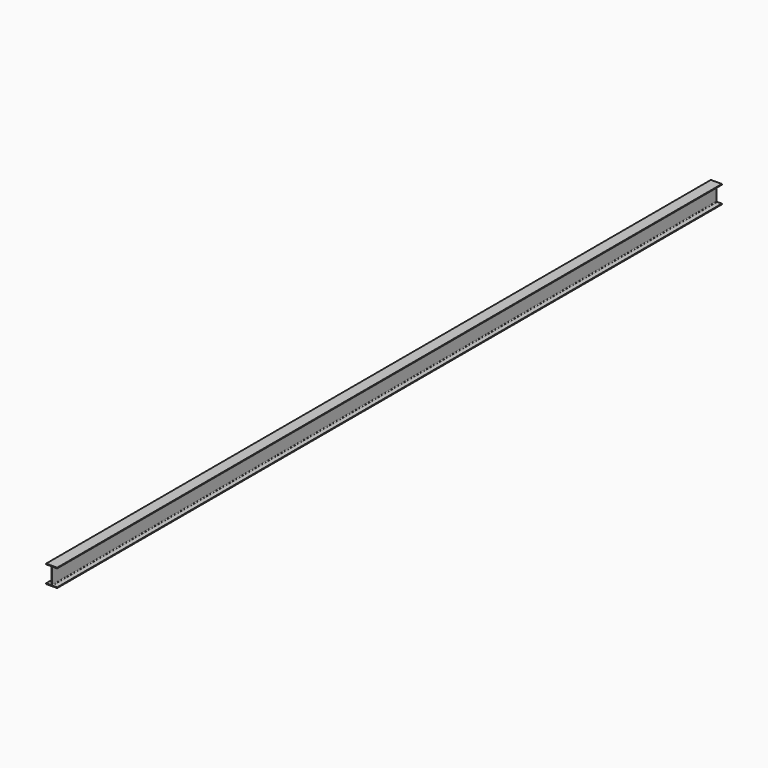
from build123d import *

# Parameters (mm, degrees)
F1_DEPTH = 7620


with BuildPart() as f1:
    # F0 (on Front) → F1 (new body)
    with BuildSketch(Plane.XZ):
        with BuildLine():
            ThreePointArc((-50.8, 137.414), (-50.725605, 137.234395), (-50.546, 137.16))
            Line((-50.546, 137.16), (-9.525, 137.16))
            ThreePointArc((-9.525, 137.16), (-5.034872, 135.300128), (-3.175, 130.81))
            Line((-3.175, 130.81), (-3.175, -8.89))
            ThreePointArc((-3.175, -8.89), (-5.034872, -13.380128), (-9.525, -15.24))
            Line((-9.525, -15.24), (-50.546, -15.24))
            ThreePointArc((-50.546, -15.24), (-50.725605, -15.314395), (-50.8, -15.494))
            Line((-50.8, -15.494), (-50.8, -21.336))
            ThreePointArc((-50.8, -21.336), (-50.725605, -21.515605), (-50.546, -21.59))
            Line((-50.546, -21.59), (50.546, -21.59))
            ThreePointArc((50.546, -21.59), (50.725605, -21.515605), (50.8, -21.336))
            Line((50.8, -21.336), (50.8, -15.494))
            ThreePointArc((50.8, -15.494), (50.725605, -15.314395), (50.546, -15.24))
            Line((50.546, -15.24), (9.525, -15.24))
            ThreePointArc((9.525, -15.24), (5.034872, -13.380128), (3.175, -8.89))
            Line((3.175, -8.89), (3.175, 130.81))
            ThreePointArc((3.175, 130.81), (5.034872, 135.300128), (9.525, 137.16))
            Line((9.525, 137.16), (50.546, 137.16))
            ThreePointArc((50.546, 137.16), (50.725605, 137.234395), (50.8, 137.414))
            Line((50.8, 137.414), (50.8, 143.256))
            ThreePointArc((50.8, 143.256), (50.725605, 143.435605), (50.546, 143.51))
            Line((50.546, 143.51), (-50.546, 143.51))
            ThreePointArc((-50.546, 143.51), (-50.725605, 143.435605), (-50.8, 143.256))
            Line((-50.8, 143.256), (-50.8, 137.414))
        make_face()
    extrude(amount=F1_DEPTH)


solid = f1.part
